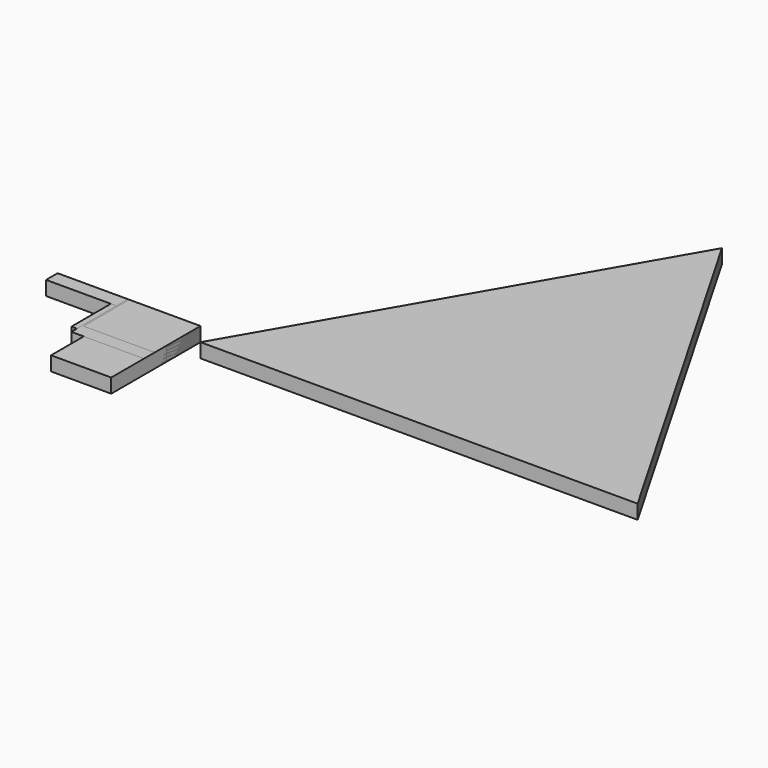
from build123d import *

# Parameters (mm, degrees)
SKETCH_W     = 34.929359
SKETCH_H     = 20.486658
PAD_DEPTH    = 10
SKETCH001_W  = 20.015697
SKETCH001_H  = 44.976456
PAD001_DEPTH = 10
SKETCH002_W  = 29.960587
SKETCH002_H  = 30.027189
PAD002_DEPTH = 10
SKETCH003_W  = 54.766457
SKETCH003_H  = 44.701084
PAD003_DEPTH = 10
SKETCH004_W  = 42.188831
SKETCH004_H  = 78.241425
PAD004_DEPTH = 10
SKETCH005_W  = 100.185661
SKETCH005_H  = 10.112617
PAD005_DEPTH = 10
SKETCH006_W  = 49.87516
SKETCH006_H  = 40.159164
PAD006_DEPTH = 10
SKETCH008_W  = 50.923298
SKETCH008_H  = 49.592381
PAD008_DEPTH = 10
SKETCH009_W  = 29.960587
SKETCH009_H  = 30.027189
PAD009_DEPTH = 10
SKETCH010_W  = 49.87516
SKETCH010_H  = 40.159164
PAD010_DEPTH = 10
PAD011_DEPTH = 10


with BuildPart() as body:
    # Sketch → Pad (new body)
    with BuildSketch(Plane.XY):
        with Locations((17.464679, 10.243329)):
            Rectangle(SKETCH_W, SKETCH_H)
    extrude(amount=PAD_DEPTH)


with BuildPart() as body_1:
    # Body placement: moved
    add(body.part.moved(Location((-34.929359, -20.486658, 0))))


with BuildPart() as body001:
    # Sketch001 → Pad001 (new body)
    with BuildSketch(Plane.XY):
        with Locations((10.007848, 22.488228)):
            Rectangle(SKETCH001_W, SKETCH001_H)
    extrude(amount=PAD001_DEPTH)


with BuildPart() as body001_1:
    # Body001 placement: moved
    add(body001.part.moved(Location((-20.015697, -44.976456, 0))))


with BuildPart() as body002:
    # Sketch002 → Pad002 (new body)
    with BuildSketch(Plane.XY):
        with Locations((14.980294, 15.013594)):
            Rectangle(SKETCH002_W, SKETCH002_H)
    extrude(amount=PAD002_DEPTH)


with BuildPart() as body002_1:
    # Body002 placement: moved
    add(body002.part.moved(Location((-29.960587, -30.027189, 0))))


with BuildPart() as body003:
    # Sketch003 → Pad003 (new body)
    with BuildSketch(Plane.XY):
        with Locations((27.383228, 22.350542)):
            Rectangle(SKETCH003_W, SKETCH003_H)
    extrude(amount=PAD003_DEPTH)


with BuildPart() as body003_1:
    # Body003 placement: moved
    add(body003.part.moved(Location((-54.766457, -44.701084, 0))))


with BuildPart() as body004:
    # Sketch004 → Pad004 (new body)
    with BuildSketch(Plane.XY):
        with Locations((21.094416, 39.120712)):
            Rectangle(SKETCH004_W, SKETCH004_H)
    extrude(amount=PAD004_DEPTH)


with BuildPart() as body004_1:
    # Body004 placement: moved
    add(body004.part.moved(Location((-42.188831, -78.241425, 0))))


with BuildPart() as body005:
    # Sketch005 → Pad005 (new body)
    with BuildSketch(Plane.XY):
        with Locations((50.09283, 5.056309)):
            Rectangle(SKETCH005_W, SKETCH005_H)
    extrude(amount=PAD005_DEPTH)


with BuildPart() as body005_1:
    # Body005 placement: moved
    add(body005.part.moved(Location((-100.185661, -10.112617, 0))))


with BuildPart() as body006:
    # Sketch006 → Pad006 (new body)
    with BuildSketch(Plane.XY):
        with Locations((24.93758, 20.079582)):
            Rectangle(SKETCH006_W, SKETCH006_H)
    extrude(amount=PAD006_DEPTH)


with BuildPart() as body006_1:
    # Body006 placement: moved
    add(body006.part.moved(Location((-49.87516, -40.159164, 0))))


with BuildPart() as body008:
    # Sketch008 → Pad008 (new body)
    with BuildSketch(Plane.XY):
        with Locations((25.461649, 24.79619)):
            Rectangle(SKETCH008_W, SKETCH008_H)
    extrude(amount=PAD008_DEPTH)


with BuildPart() as body008_1:
    # Body008 placement: moved
    add(body008.part.moved(Location((-50.923298, -49.592381, 0))))


with BuildPart() as body009:
    # Sketch009 → Pad009 (new body)
    with BuildSketch(Plane.XY):
        with Locations((14.980294, 15.013594)):
            Rectangle(SKETCH009_W, SKETCH009_H)
    extrude(amount=PAD009_DEPTH)


with BuildPart() as body009_1:
    # Body009 placement: moved
    add(body009.part.moved(Location((-29.960587, -30.027189, 0))))


with BuildPart() as body010:
    # Sketch010 → Pad010 (new body)
    with BuildSketch(Plane.XY):
        with Locations((24.93758, 20.079582)):
            Rectangle(SKETCH010_W, SKETCH010_H)
    extrude(amount=PAD010_DEPTH)


with BuildPart() as body010_1:
    # Body010 placement: moved
    add(body010.part.moved(Location((-49.87516, -40.159164, 0))))


with BuildPart() as board_body:
    # Sketch011 → Pad011 (new body)
    with BuildSketch(Plane.XY):
        Polygon((-47.205635, 137.739944), (-200.437314, -127.665109), (106.026044, -127.665109), align=None)
    extrude(amount=-PAD011_DEPTH)


with BuildPart() as board_body_1:
    # Body011 placement: moved
    add(board_body.part.moved(Location((200.437314, 127.665109, 0))))


solid = Compound([body_1.part, body001_1.part, body002_1.part, body003_1.part, body004_1.part, body005_1.part, body006_1.part, body008_1.part, body009_1.part, body010_1.part, board_body_1.part])
